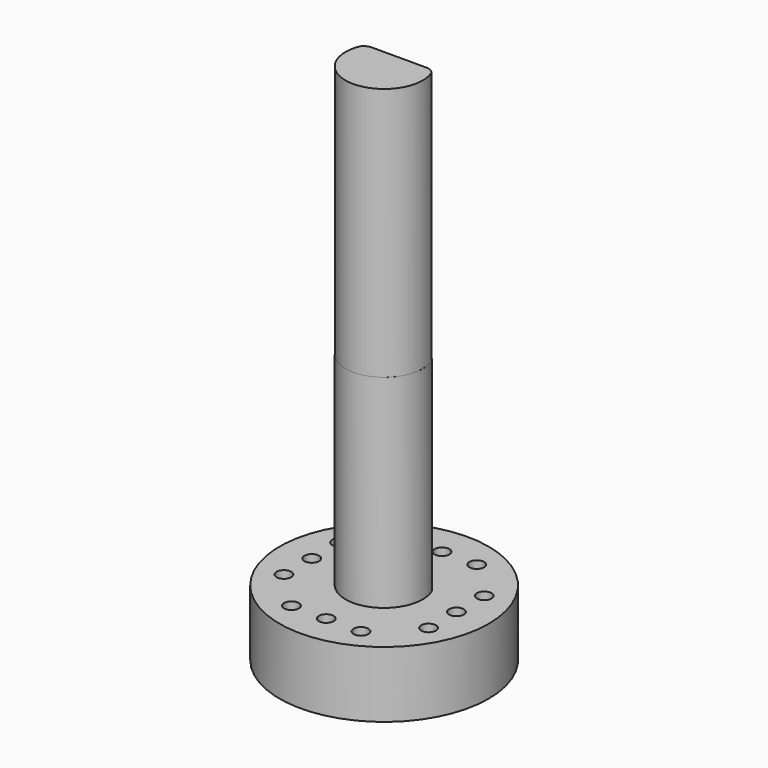
from build123d import *

# Parameters (mm, degrees)
EXTRUDE002_DEPTH   = 25
SKETCH_R           = 10.3
EXTRUDE_DEPTH      = 6.5
SKETCH003_R        = 0.725
POCKET_DEPTH       = 10
POLARPATTERN_COUNT = 4
EXTRUDE001_DEPTH   = 20
FILLET_R           = 0.5


with BuildPart() as obj1:
    # Sketch002 (on Face4 of Extrude001) → Extrude002 (new body)
    with BuildSketch(Plane.XY.offset(20)):
        with BuildLine():
            ThreePointArc((-2.728847, 1.85), (-3.181859, 1.726665), (-3.528654, 1.410177))
            ThreePointArc((-3.528654, 1.410177), (0.000105, -3.8), (3.528577, 1.410371))
            ThreePointArc((3.528577, 1.410371), (3.182952, 1.726142), (2.731481, 1.85))
            Line((-2.728847, 1.85), (2.731481, 1.85))
        make_face()
    extrude(amount=EXTRUDE002_DEPTH)


with BuildPart() as basebody:
    # Sketch → Extrude (new body)
    with BuildSketch(Plane.XY):
        Circle(SKETCH_R)
    extrude(amount=-EXTRUDE_DEPTH)

    # Sketch003 (on Face3 of Extrude) → Pocket (cut)
    with BuildSketch(Plane.XY):
        with Locations((0, 7.125)):
            Circle(SKETCH003_R)
        with Locations((3.425, 7.125)):
            Circle(SKETCH003_R)
        with Locations((-3.425, 7.125)):
            Circle(SKETCH003_R)
    pocket = extrude(amount=-POCKET_DEPTH, mode=Mode.SUBTRACT)

    # PolarPattern: Pocket ×4 about axis
    polarpattern_axis = Axis((0, 0, 0), (0, 0, 1))
    for i in range(1, POLARPATTERN_COUNT):
        add(pocket.rotate(polarpattern_axis, i * 360 / POLARPATTERN_COUNT), mode=Mode.SUBTRACT)


with BuildPart() as obj2:
    # Sketch001 (on Face3 of Extrude) → Extrude001 (new body)
    with BuildSketch(Plane.XY):
        with BuildLine():
            ThreePointArc((-3.319262, 1.85), (0, -3.8), (3.319262, 1.85))
            Line((-3.319262, 1.85), (3.319262, 1.85))
        make_face()
    extrude(amount=EXTRUDE001_DEPTH)

    # Fillet
    fillet_edges = [obj2.edges().sort_by_distance(p)[0] for p in [
        (-3.319262, 1.85, 10),
        (3.319262, 1.85, 10),
    ]]
    fillet(fillet_edges, radius=FILLET_R)


solid = Compound([obj1.part, basebody.part, obj2.part])
